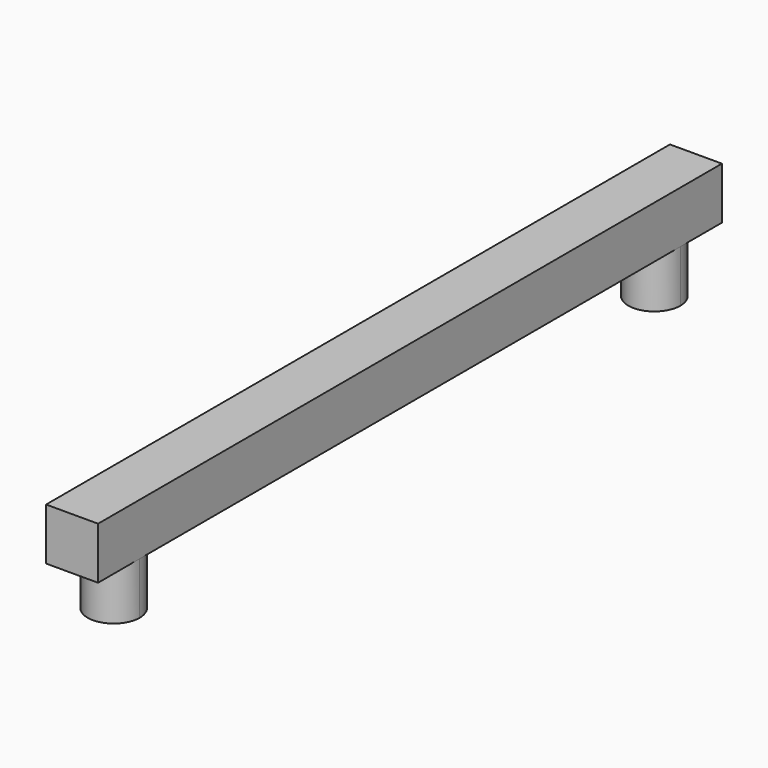
from build123d import *

# Parameters (mm, degrees)
F0_R     = 12.7
F1_DEPTH = 25.4
F3_W     = 25.4
F3_H     = 381
F4_DEPTH = 25.4
F6_DEPTH = 50.8
F7_DEPTH = 25.4
F9_DEPTH = 25.4


with BuildPart() as f1:
    # F0 (on Top) → F1 (new body)
    with BuildSketch(Plane.XY):
        with Locations((-130.0663352013, -20.0254302472)):
            Circle(F0_R)
    extrude(amount=F1_DEPTH)


with BuildPart() as f4:
    # F3 (on Top) → F4 (new body)
    with BuildSketch(Plane.XY):
        with Locations((-44.869919461, 159.0675017536)):
            Rectangle(F3_W, F3_H)
    extrude(amount=F4_DEPTH)

    # F5 (on face) → F6 (join)
    with BuildSketch(Plane(origin=(0, 0, 0), x_dir=(1, 0, 0), z_dir=(0, 0, -1))):
        with BuildLine():
            ThreePointArc((-32.169919461, 6.0324982464), (-35.8896633399, 15.0127543675), (-44.869919461, 18.7324982464))
            ThreePointArc((-44.869919461, 18.7324982464), (-49.729999052, 17.7657683093), (-53.8501755821, 15.0127543675))
            Line((-53.8501755821, 15.0127543675), (-35.8896633399, -2.9477578746))
            ThreePointArc((-35.8896633399, -2.9477578746), (-33.1366493981, 1.1724186554), (-32.169919461, 6.0324982464))
        make_face()
        with BuildLine():
            ThreePointArc((-53.8501755821, 15.0127543675), (-56.6031895193, 10.8925778487), (-57.569919461, 6.0324982708))
            ThreePointArc((-57.569919461, 6.0324982708), (-53.8501755907, -2.947757866), (-44.869919461, -6.6675017536))
            ThreePointArc((-44.869919461, -6.6675017536), (-40.00983987, -5.7007718165), (-35.8896633399, -2.9477578746))
            Line((-35.8896633399, -2.9477578746), (-53.8501755821, 15.0127543675))
        make_face()
    extrude(amount=F6_DEPTH)

    # F7 (cut): a face of the model
    f7_faces = [f4.faces().sort_by_distance(p)[0] for p in [
        (-44.869919461, -6.0324982464, -50.8),
    ]]
    extrude(f7_faces, amount=-F7_DEPTH, mode=Mode.SUBTRACT)

    # F8 (on face) → F9 (join)
    with BuildSketch(Plane(origin=(0, 0, 0), x_dir=(1, 0, 0), z_dir=(0, 0, -1))):
        with BuildLine():
            ThreePointArc((-35.8896633399, -333.1477578746), (-33.1366493981, -329.0275813446), (-32.169919461, -324.1675017536))
            ThreePointArc((-32.169919461, -324.1675017536), (-35.8896633399, -315.1872456325), (-44.869919461, -311.4675017536))
            ThreePointArc((-44.869919461, -311.4675017536), (-49.729999052, -312.4342316907), (-53.8501755821, -315.1872456325))
            Line((-53.8501755821, -315.1872456325), (-35.8896633399, -333.1477578746))
        make_face()
        with BuildLine():
            ThreePointArc((-57.569919461, -324.1675017536), (-53.8501755821, -333.1477578746), (-44.869919461, -336.8675017536))
            ThreePointArc((-44.869919461, -336.8675017536), (-40.00983987, -335.9007718165), (-35.8896633399, -333.1477578746))
            Line((-35.8896633399, -333.1477578746), (-53.8501755821, -315.1872456325))
            ThreePointArc((-53.8501755821, -315.1872456325), (-56.6031895239, -319.3074221625), (-57.569919461, -324.1675017536))
        make_face()
    extrude(amount=F9_DEPTH)


solid = f4.part
